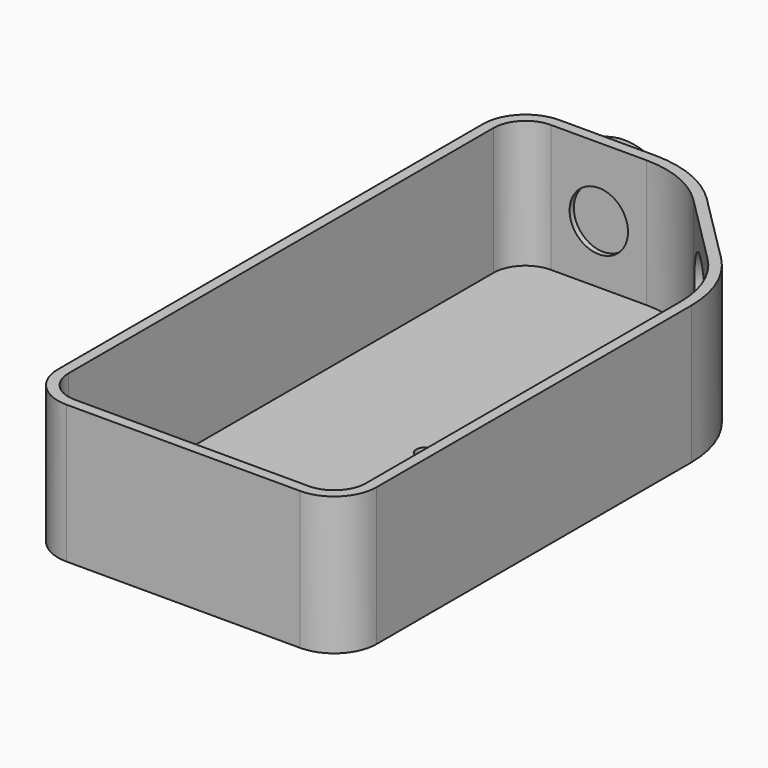
from build123d import *

# Parameters (mm, degrees)
PAD_DEPTH       = 26
POCKET_DEPTH    = 24
SKETCH002_R     = 8.25
POCKET001_DEPTH = 3
SKETCH003_R     = 5.5
POCKET002_DEPTH = 3
SKETCH004_R     = 1.75
POCKET003_DEPTH = 5
SKETCH005_R     = 11
POCKET004_DEPTH = 1
SKETCH006_R     = 11
PAD001_DEPTH    = 5
FILLET_R        = 3


with BuildPart() as part:
    # Sketch → Pad (new body)
    with BuildSketch(Plane.XY):
        with BuildLine():
            Line((60, 8), (60, 82.000001))
            ThreePointArc((60, 82.000001), (58.434586, 89.869877), (53.976662, 96.541638))
            Line((40.541631, 109.976664), (53.976662, 96.541638))
            ThreePointArc((40.541631, 109.976664), (33.869872, 114.434584), (25.999999, 115.999997))
            Line((7.999999, 115.999997), (25.999999, 115.999997))
            ThreePointArc((7.999999, 115.999997), (2.343146, 113.656851), (0, 107.999998))
            Line((0, 107.999998), (0, 8))
            ThreePointArc((0, 8), (2.343146, 2.343146), (8, 0))
            Line((8, 0), (52, 0))
            ThreePointArc((52, 0), (57.656854, 2.343146), (60, 8))
        make_face()
    extrude(amount=PAD_DEPTH)

    # Sketch001 → Pocket (cut)
    with BuildSketch(Plane.XY.offset(26)):
        with BuildLine():
            ThreePointArc((8.00001, 113.999998), (3.757363, 112.242642), (2, 107.999998))
            Line((2, 107.999998), (2, 8))
            ThreePointArc((2, 8), (3.757359, 3.757359), (8, 2))
            Line((8, 2), (52, 2))
            ThreePointArc((52, 2), (56.242642, 3.757359), (58.000001, 8))
            Line((58.000001, 82), (58.000001, 8))
            ThreePointArc((58.000001, 82), (56.586824, 89.104519), (52.562435, 95.127438))
            Line((39.127419, 108.562437), (52.562435, 95.127438))
            ThreePointArc((39.127419, 108.562437), (33.104503, 112.586822), (25.99999, 113.999998))
            Line((8.00001, 113.999998), (25.99999, 113.999998))
        make_face()
    extrude(amount=-POCKET_DEPTH, mode=Mode.SUBTRACT)

    # Sketch002 → Pocket001 (cut)
    with BuildSketch(Plane(origin=(75.259141, 75.259166, 0), x_dir=(-0.707107, 0.707107, 0), z_dir=(0.707107, 0.707107, 0))):
        with Locations((39.5, 13)):
            Circle(SKETCH002_R)
    extrude(amount=-POCKET001_DEPTH, mode=Mode.SUBTRACT)

    # Sketch003 → Pocket002 (cut)
    with BuildSketch(Plane(origin=(0, 115.999997, 0), x_dir=(-1, 0, 0), z_dir=(0, 1, 0))):
        with Locations((-17, 13)):
            Circle(SKETCH003_R)
    extrude(amount=-POCKET002_DEPTH, mode=Mode.SUBTRACT)

    # Sketch004 → Pocket003 (cut)
    with BuildSketch(Plane.XY.offset(2)):
        with Locations((30, 29)):
            Circle(SKETCH004_R)
        with Locations((30, 57)):
            Circle(SKETCH004_R)
    extrude(amount=-POCKET003_DEPTH, mode=Mode.SUBTRACT)

    # Sketch005 → Pocket004 (cut)
    with BuildSketch(Plane(origin=(0, 115.999997, 0), x_dir=(-1, 0, 0), z_dir=(0, 1, 0))):
        with Locations((-17, 13)):
            Circle(SKETCH005_R)
    extrude(amount=-POCKET004_DEPTH, mode=Mode.SUBTRACT)

    # Sketch006 → Pad001 (new body)
    with BuildSketch(Plane(origin=(0, 114.999997, 0), x_dir=(-1, 0, 0), z_dir=(0, 1, 0))):
        with Locations((-17, 13)):
            Circle(SKETCH006_R)
    extrude(amount=PAD001_DEPTH)

    # Fillet
    fillet_edges = [part.edges().sort_by_distance(p)[0] for p in [
        (16.999999, 115.999997, 2),
        (28, 115.902514, 12.999999),
        (6.512058, 115.860406, 9.682926),
        (6.512058, 115.860406, 16.317074),
        (16.999999, 115.999997, 24),
    ]]
    fillet(fillet_edges, radius=FILLET_R)


solid = part.part
